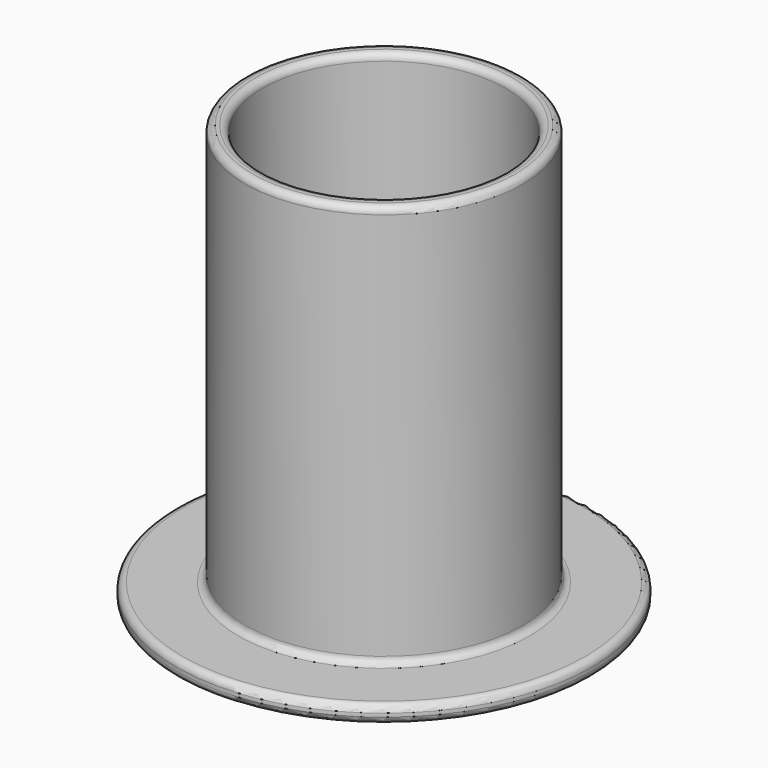
from build123d import *

# Parameters (mm, degrees)
SKETCH_R     = 30
PAD_DEPTH    = 2.5
SKETCH001_R  = 20
PAD001_DEPTH = 58
SKETCH002_R  = 17.5
POCKET_DEPTH = 60.501
FILLET_R     = 1


with BuildPart() as part:
    # Sketch (on XY_Plane of Origin) → Pad (new body)
    with BuildSketch(Plane.XY):
        Circle(SKETCH_R)
    extrude(amount=PAD_DEPTH)

    # Sketch001 (on Face3 of Pad) → Pad001 (join)
    with BuildSketch(Plane.XY.offset(2.5)):
        Circle(SKETCH001_R)
    extrude(amount=PAD001_DEPTH)

    # Sketch002 (on Face5 of Pad001) → Pocket (cut, through all)
    with BuildSketch(Plane.XY.offset(60.5)):
        Circle(SKETCH002_R)
    extrude(amount=-POCKET_DEPTH, mode=Mode.SUBTRACT)

    # Fillet
    fillet_edges = [part.edges().sort_by_distance(p)[0] for p in [
        (30, 0, 1.25),
        (-30, 0, 0),
        (-30, 0, 2.5),
        (-17.5, 0, 0),
        (-20, 0, 2.5),
        (-17.5, 0, 60.5),
        (17.5, 0, 30.25),
        (20, 0, 31.5),
        (-20, 0, 60.5),
    ]]
    fillet(fillet_edges, radius=FILLET_R)


solid = part.part
